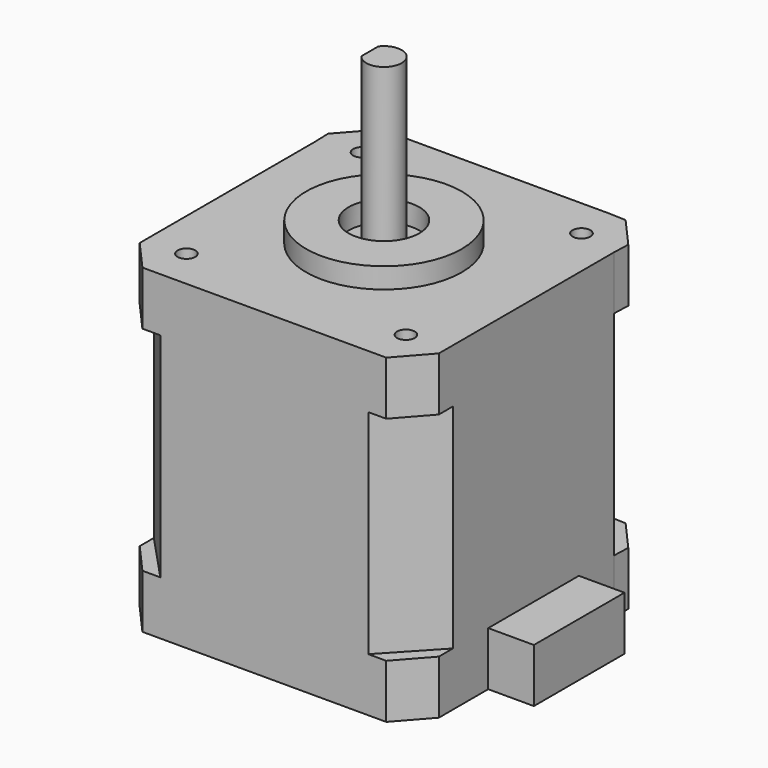
from build123d import *

# Parameters (mm, degrees)
F1_DEPTH  = 15.05
F3_DEPTH  = 7.6
F5_R      = 11
F5_R_2    = 5
F6_DEPTH  = 2.9
F5_R_3    = 2.5
F7_DEPTH  = 23.25
F9_DEPTH  = 15.4
F10_W     = 16
F10_H     = 7.6
F11_DEPTH = 6.45
F5_R_4    = 1.25
F12_DEPTH = 3.75


with BuildPart() as f1:
    # F0 (on Top) → F1 (new body, symmetric)
    with BuildSketch(Plane.XY):
        Polygon((21.125, 14.2244820946), (14.6871989155, 21.125), (-14.6871989155, 21.125), (-21.125, 14.2244820946), (-21.125, -14.2244820946), (-14.6871989155, -21.125), (14.6871989155, -21.125), (21.125, -14.2244820946), align=None)
    extrude(amount=F1_DEPTH, both=True)

    # F2 (on face) → F3 (join)
    with BuildSketch(Plane.XY.offset(15.05)):
        Polygon((-21.2083792326, 16.6279797649), (-21.125, 14.2244820946), (-21.125, -14.2244820946), (-21.125, -16.7187881371), (-17.2214704386, -21.125), (-14.6871989155, -21.125), (14.6871989155, -21.125), (17.2214704386, -21.125), (21.125, -16.7187881371), (21.125, -14.2244820946), (21.125, 14.2244820946), (21.2083792326, 16.6279797649), (17.3048496711, 21.0341916278), (14.6871989155, 21.125), (-14.6871989155, 21.125), (-17.3048496711, 21.0341916278), align=None)
    extrude(amount=F3_DEPTH)

    # F4: F1 across plane


with BuildPart() as f1_1:
    add(f1.part)
    add(f1.part.mirror(Plane.XY))

    # F5 (on face) → F6 (join)
    with BuildSketch(Plane.XY.offset(22.65)):
        Circle(F5_R)
        Circle(F5_R_2, mode=Mode.SUBTRACT)
    extrude(amount=F6_DEPTH)

    # F5 (on face) → F7 (join)
    with BuildSketch(Plane.XY.offset(22.65)):
        Circle(F5_R_3)
    extrude(amount=F7_DEPTH)

    # F8 (on face) → F9 (cut)
    with BuildSketch(Plane.XY.offset(45.9)):
        with BuildLine():
            ThreePointArc((-2, 1.5), (-2.5, 0), (-2, -1.5))
            Line((-2, -1.5), (-2, 1.5))
        make_face()
    extrude(amount=-F9_DEPTH, mode=Mode.SUBTRACT)

    # F10 (on face) → F11 (join)
    with BuildSketch(Plane.YZ.offset(21.125)):
        with Locations((0, -18.85)):
            Rectangle(F10_W, F10_H)
    extrude(amount=F11_DEPTH)

    # F5 (on face) → F12 (cut)
    with BuildSketch(Plane.XY.offset(22.65)):
        with Locations((-15.5, -15.5)):
            Circle(F5_R_4)
        with Locations((15.5, -15.5)):
            Circle(F5_R_4)
        with Locations((15.5, 15.5)):
            Circle(F5_R_4)
        with Locations((-15.5, 15.5)):
            Circle(F5_R_4)
    extrude(amount=-F12_DEPTH, mode=Mode.SUBTRACT)


solid = f1_1.part
